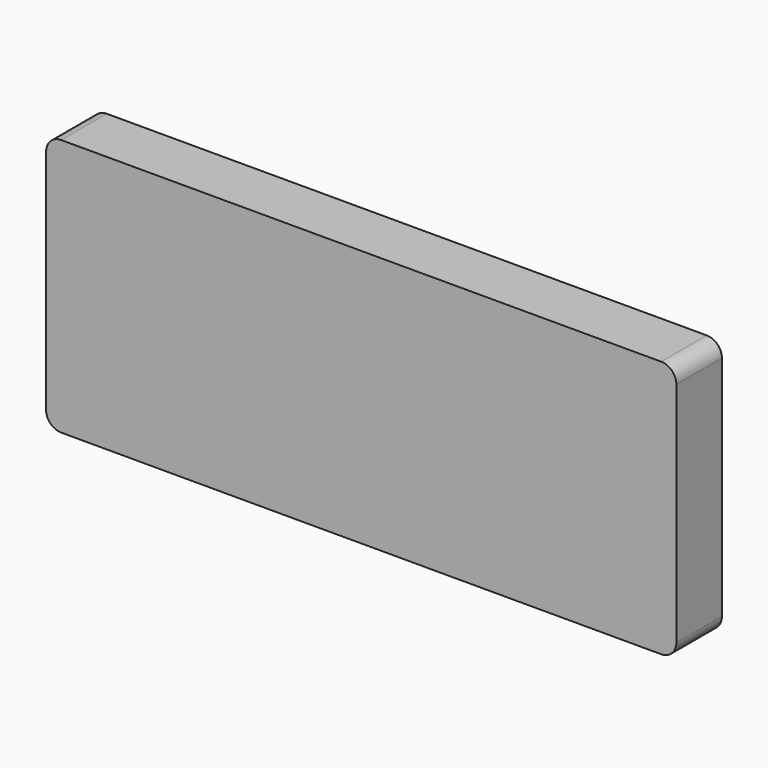
from build123d import *

# Parameters (mm, degrees)
F0_W     = 52.832
F0_H     = 21.59
F1_DEPTH = 4.7752
F2_R     = 1.27


with BuildPart() as f1:
    # F0 (on Front) → F1 (new body)
    with BuildSketch(Plane.XZ):
        Rectangle(F0_W, F0_H)
    extrude(amount=F1_DEPTH)

    # F2
    f2_edges = [f1.edges().sort_by_distance(p)[0] for p in [
        (-26.416, -2.3876, 10.795),
        (26.416, -2.3876, 10.795),
        (26.416, -2.3876, -10.795),
        (-26.416, -2.3876, -10.795),
    ]]
    fillet(f2_edges, radius=F2_R)


with BuildPart() as f3_1:
    # F3: copy of F1
    add(f1.part)


solid = f1.part
